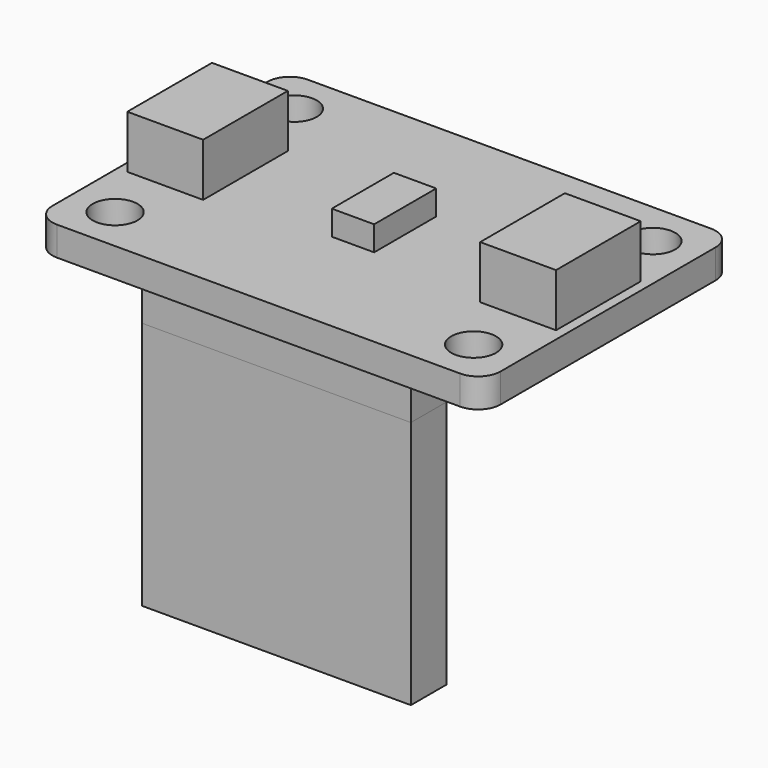
from build123d import *

# Parameters (mm, degrees)
PAD_DEPTH               = 1.65
SKETCH020_R             = 1.27
POCKET_DEPTH            = 1.651
SKETCH016_W             = 13.3
SKETCH016_H             = 0.6
PAD008_DEPTH            = 8.74
BODY013_PLACEMENT_ANGLE = 180
SKETCH014_W             = 15.24
SKETCH014_H             = 2.54
PAD007_DEPTH            = 2.54
SKETCH018_W             = 15.24
SKETCH018_H             = 2.54
PAD009_DEPTH            = 14.1
SKETCH019_W             = 2.4
SKETCH019_H             = 4.4
PAD010_DEPTH            = 1.4
SKETCH021_W             = 4.3
SKETCH021_H             = 6
PAD011_DEPTH            = 3
SKETCH022_W             = 4.3
SKETCH022_H             = 6
PAD012_DEPTH            = 3


with BuildPart() as obj1:
    # Sketch → Pad (new body)
    with BuildSketch(Plane.XY):
        with BuildLine():
            Line((-11.43, 8.89), (11.43, 8.89))
            ThreePointArc((12.7, 7.62), (12.328026, 8.518026), (11.43, 8.89))
            Line((12.7, 7.62), (12.7, -7.62))
            ThreePointArc((11.43, -8.89), (12.328026, -8.518026), (12.7, -7.62))
            Line((11.43, -8.89), (-11.43, -8.89))
            ThreePointArc((-12.7, -7.62), (-12.328026, -8.518026), (-11.43, -8.89))
            Line((-12.7, -7.62), (-12.7, 7.62))
            ThreePointArc((-11.43, 8.89), (-12.328026, 8.518026), (-12.7, 7.62))
        make_face()
    extrude(amount=-PAD_DEPTH)

    # Sketch020 → Pocket (cut, through all)
    with BuildSketch(Plane.XY):
        with Locations((-10.16, 6.35)):
            Circle(SKETCH020_R)
        with Locations((10.16, 6.35)):
            Circle(SKETCH020_R)
        with Locations((10.16, -6.35)):
            Circle(SKETCH020_R)
        with Locations((-10.16, -6.35)):
            Circle(SKETCH020_R)
    extrude(amount=-POCKET_DEPTH, mode=Mode.SUBTRACT)


with BuildPart() as pins:
    # Sketch016 → Pad008 (new body)
    with BuildSketch(Plane.XY):
        with Locations((0, 6.35)):
            Rectangle(SKETCH016_W, SKETCH016_H)
    extrude(amount=PAD008_DEPTH)


with BuildPart() as pins_1:
    # Body013 placement: moved
    add(pins.part.moved(Location((0, 0, -1.7))).rotate(Axis((0, 0, -1.7), (1, 0, 0)), BODY013_PLACEMENT_ANGLE))


with BuildPart() as pinblock:
    # Sketch014 → Pad007 (new body)
    with BuildSketch(Plane.XY):
        with Locations((0, -6.35)):
            Rectangle(SKETCH014_W, SKETCH014_H)
    extrude(amount=PAD007_DEPTH)


with BuildPart() as pinblock_1:
    # Body012 placement: moved
    add(pinblock.part.moved(Location((0, 0, -4.2))))


with BuildPart() as jumperheader:
    # Sketch018 → Pad009 (new body)
    with BuildSketch(Plane.XY):
        with Locations((0, -6.35)):
            Rectangle(SKETCH018_W, SKETCH018_H)
    extrude(amount=-PAD009_DEPTH)


with BuildPart() as jumperheader_1:
    # Body014 placement: moved
    add(jumperheader.part.moved(Location((0, 0, -4.2))))


with BuildPart() as laser:
    # Sketch019 → Pad010 (new body)
    with BuildSketch(Plane.XY):
        Rectangle(SKETCH019_W, SKETCH019_H)
    extrude(amount=PAD010_DEPTH)


with BuildPart() as obj2:
    # Sketch021 → Pad011 (new body)
    with BuildSketch(Plane.XY):
        Rectangle(SKETCH021_W, SKETCH021_H)
    extrude(amount=PAD011_DEPTH)


with BuildPart() as obj2_1:
    # Body016 placement: moved
    add(obj2.part.moved(Location((-10, 0, 0))))


with BuildPart() as obj3:
    # Sketch022 → Pad012 (new body)
    with BuildSketch(Plane.XY):
        Rectangle(SKETCH022_W, SKETCH022_H)
    extrude(amount=PAD012_DEPTH)


with BuildPart() as obj3_1:
    # Body017 placement: moved
    add(obj3.part.moved(Location((10, 0, 0))))


solid = Compound([obj1.part, pins_1.part, pinblock_1.part, jumperheader_1.part, laser.part, obj2_1.part, obj3_1.part])
